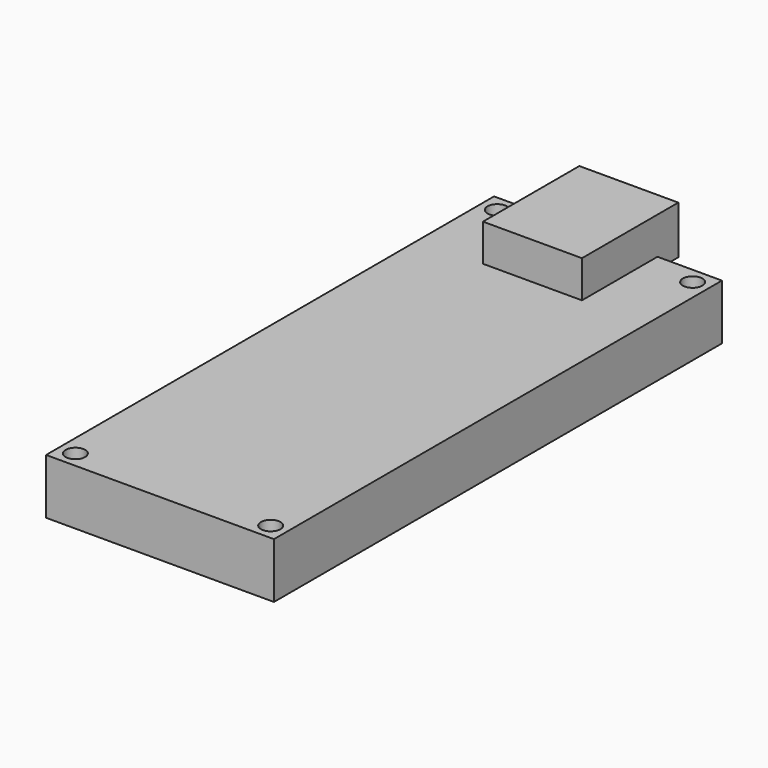
from build123d import *

# Parameters (mm, degrees)
F0_R     = 0.75
F0_W     = 7.6
F0_H     = 7.25
F1_DEPTH = 4.25
F2_START = 3.4
F0_H_2   = 2
F2_DEPTH = 3.7


with BuildPart() as f1:
    # F0 (on Top) → F1 (new body)
    with BuildSketch(Plane.XY):
        Polygon((-3.8, 21.5), (-8.75, 21.5), (-8.75, -21.5), (8.75, -21.5), (8.75, 21.5), (3.8, 21.5), (3.8, 14.25), (-3.8, 14.25), align=None)
        with Locations((-7.5, -20.25)):
            Circle(F0_R, mode=Mode.SUBTRACT)
        with Locations((7.5, -20.25)):
            Circle(F0_R, mode=Mode.SUBTRACT)
        with Locations((-7.5, 20.25)):
            Circle(F0_R, mode=Mode.SUBTRACT)
        with Locations((7.5, 20.25)):
            Circle(F0_R, mode=Mode.SUBTRACT)
        with Locations((0, 17.875)):
            Rectangle(F0_W, F0_H)
    extrude(amount=F1_DEPTH)

    # F0 (on Top) → F2 (join)
    with BuildSketch(Plane.XY.offset(F2_START)):
        with Locations((0, 17.875)):
            Rectangle(F0_W, F0_H)
        with Locations((0, 22.5)):
            Rectangle(F0_W, F0_H_2)
    extrude(amount=F2_DEPTH)


solid = f1.part
